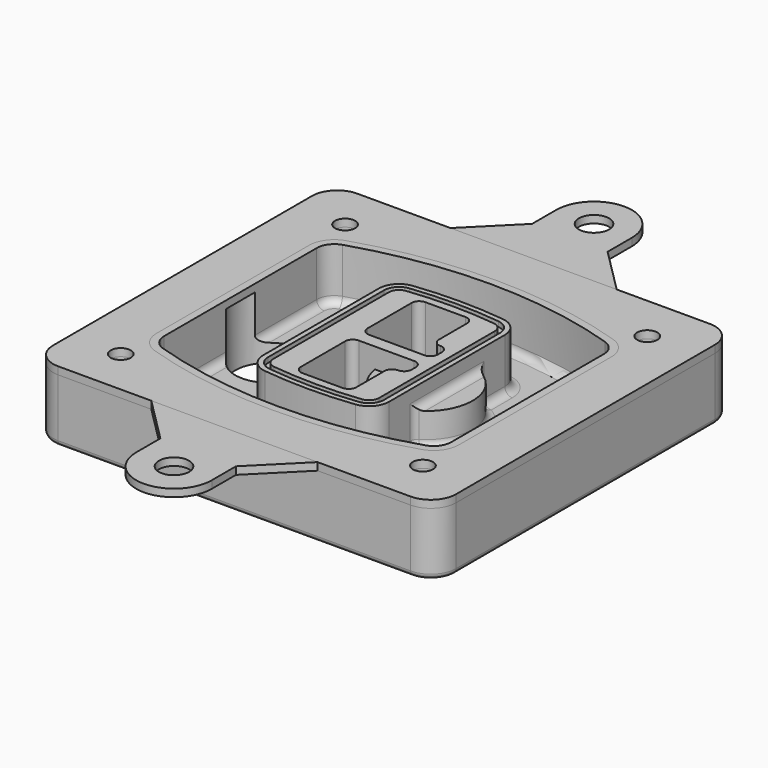
from build123d import *

# Parameters (mm, degrees)
F0_R      = 4
F1_DEPTH  = 25
F2_DEPTH  = 3
F3_DEPTH  = 18
F5_DEPTH  = 21
F6_DEPTH  = 2
F8_DEPTH  = 20
F9_DEPTH  = 16
F10_DEPTH = 25
F7_R      = 6
F7_R_2    = 4
F11_DEPTH = 6
F13_DEPTH = 9
F14_R     = 3
F15_R     = 2
F17_R     = 6
F18_DEPTH = 3
F16_R     = 4


with BuildPart() as f1:
    # F0 (on Top) → F1 (new body)
    with BuildSketch(Plane.XY):
        with BuildLine():
            ThreePointArc((-80, -64.25), (-77.0710678119, -71.3210678119), (-70, -74.25))
            Line((-70, -74.25), (70, -74.25))
            ThreePointArc((70, -74.25), (77.0710678119, -71.3210678119), (80, -64.25))
            Line((80, -64.25), (80, 64.25))
            ThreePointArc((80, 64.25), (77.0710678119, 71.3210678119), (70, 74.25))
            Line((70, 74.25), (-70, 74.25))
            ThreePointArc((-70, 74.25), (-77.0710678119, 71.3210678119), (-80, 64.25))
            Line((-80, 64.25), (-80, -64.25))
        make_face()
        with Locations((-60, -55.6875)):
            Circle(F0_R, mode=Mode.SUBTRACT)
        with Locations((60, -55.6875)):
            Circle(F0_R, mode=Mode.SUBTRACT)
        with Locations((-60, 55.6875)):
            Circle(F0_R, mode=Mode.SUBTRACT)
        with BuildLine():
            ThreePointArc((-64, 37.8679139701), (-61.3102148227, 46.1189163738), (-54.2744227621, 51.1994296398))
            ThreePointArc((-54.2744227621, 51.1994296398), (0, 59.6875), (54.2744227621, 51.1994296398))
            ThreePointArc((54.2744227621, 51.1994296398), (61.3102148227, 46.1189163738), (64, 37.8679139701))
            Line((64, 37.8679139701), (64, -37.8679139701))
            ThreePointArc((64, -37.8679139701), (61.3102148227, -46.1189163738), (54.2744227621, -51.1994296398))
            ThreePointArc((54.2744227621, -51.1994296398), (0, -59.6875), (-54.2744227621, -51.1994296398))
            ThreePointArc((-54.2744227621, -51.1994296398), (-61.3102148227, -46.1189163738), (-64, -37.8679139701))
            Line((-64, -37.8679139701), (-64, 37.8679139701))
        make_face(mode=Mode.SUBTRACT)
        with Locations((60, 55.6875)):
            Circle(F0_R, mode=Mode.SUBTRACT)
        with BuildLine():
            ThreePointArc((54.2744227621, 51.1994296398), (0, 59.6875), (-54.2744227621, 51.1994296398))
            ThreePointArc((-54.2744227621, 51.1994296398), (-61.3102148227, 46.1189163738), (-64, 37.8679139701))
            Line((-64, 37.8679139701), (-64, -37.8679139701))
            ThreePointArc((-64, -37.8679139701), (-61.3102148227, -46.1189163738), (-54.2744227621, -51.1994296398))
            ThreePointArc((-54.2744227621, -51.1994296398), (0, -59.6875), (54.2744227621, -51.1994296398))
            ThreePointArc((54.2744227621, -51.1994296398), (61.3102148227, -46.1189163738), (64, -37.8679139701))
            Line((64, -37.8679139701), (64, 37.8679139701))
            ThreePointArc((64, 37.8679139701), (61.3102148227, 46.1189163738), (54.2744227621, 51.1994296398))
        make_face()
        with BuildLine():
            Line((-60, -37.8679139701), (-60, 37.8679139701))
            ThreePointArc((-60, 37.8679139701), (-58.0787248733, 43.7614871156), (-53.0531591158, 47.3904251628))
            ThreePointArc((-53.0531591158, 47.3904251628), (0, 55.6875), (53.0531591158, 47.3904251628))
            ThreePointArc((53.0531591158, 47.3904251628), (58.0787248733, 43.7614871156), (60, 37.8679139701))
            Line((60, 37.8679139701), (60, -37.8679139701))
            ThreePointArc((60, -37.8679139701), (58.0787248733, -43.7614871156), (53.0531591158, -47.3904251628))
            ThreePointArc((53.0531591158, -47.3904251628), (0, -55.6875), (-53.0531591158, -47.3904251628))
            ThreePointArc((-53.0531591158, -47.3904251628), (-58.0787248733, -43.7614871156), (-60, -37.8679139701))
        make_face(mode=Mode.SUBTRACT)
        with BuildLine():
            ThreePointArc((-53.0531591158, 47.3904251628), (-58.0787248733, 43.7614871156), (-60, 37.8679139701))
            Line((-60, 37.8679139701), (-60, -37.8679139701))
            ThreePointArc((-60, -37.8679139701), (-58.0787248733, -43.7614871156), (-53.0531591158, -47.3904251628))
            ThreePointArc((-53.0531591158, -47.3904251628), (0, -55.6875), (53.0531591158, -47.3904251628))
            ThreePointArc((53.0531591158, -47.3904251628), (58.0787248733, -43.7614871156), (60, -37.8679139701))
            Line((60, -37.8679139701), (60, 37.8679139701))
            ThreePointArc((60, 37.8679139701), (58.0787248733, 43.7614871156), (53.0531591158, 47.3904251628))
            ThreePointArc((53.0531591158, 47.3904251628), (0, 55.6875), (-53.0531591158, 47.3904251628))
        make_face()
        with BuildLine():
            ThreePointArc((52.1372113811, 44.533671805), (55.6551074113, 41.993415172), (57, 37.8679139701))
            Line((57, 37.8679139701), (57, -37.8679139701))
            ThreePointArc((57, -37.8679139701), (55.6551074113, -41.993415172), (52.1372113811, -44.533671805))
            ThreePointArc((52.1372113811, -44.533671805), (0, -52.6875), (-52.1372113811, -44.533671805))
            ThreePointArc((-52.1372113811, -44.533671805), (-55.6551074113, -41.993415172), (-57, -37.8679139701))
            Line((-57, -37.8679139701), (-57, 37.8679139701))
            ThreePointArc((-57, 37.8679139701), (-55.6551074113, 41.993415172), (-52.1372113811, 44.533671805))
            ThreePointArc((-52.1372113811, 44.533671805), (0, 52.6875), (52.1372113811, 44.533671805))
        make_face(mode=Mode.SUBTRACT)
        with BuildLine():
            Line((57, -37.8679139701), (57, 37.8679139701))
            ThreePointArc((57, 37.8679139701), (55.6551074113, 41.993415172), (52.1372113811, 44.533671805))
            ThreePointArc((52.1372113811, 44.533671805), (0, 52.6875), (-52.1372113811, 44.533671805))
            ThreePointArc((-52.1372113811, 44.533671805), (-55.6551074113, 41.993415172), (-57, 37.8679139701))
            Line((-57, 37.8679139701), (-57, -37.8679139701))
            ThreePointArc((-57, -37.8679139701), (-55.6551074113, -41.993415172), (-52.1372113811, -44.533671805))
            ThreePointArc((-52.1372113811, -44.533671805), (0, -52.6875), (52.1372113811, -44.533671805))
            ThreePointArc((52.1372113811, -44.533671805), (55.6551074113, -41.993415172), (57, -37.8679139701))
        make_face()
    extrude(amount=-F1_DEPTH)

    # F0 (on Top) → F2 (join)
    with BuildSketch(Plane.XY):
        with BuildLine():
            ThreePointArc((-53.0531591158, 47.3904251628), (-58.0787248733, 43.7614871156), (-60, 37.8679139701))
            Line((-60, 37.8679139701), (-60, -37.8679139701))
            ThreePointArc((-60, -37.8679139701), (-58.0787248733, -43.7614871156), (-53.0531591158, -47.3904251628))
            ThreePointArc((-53.0531591158, -47.3904251628), (0, -55.6875), (53.0531591158, -47.3904251628))
            ThreePointArc((53.0531591158, -47.3904251628), (58.0787248733, -43.7614871156), (60, -37.8679139701))
            Line((60, -37.8679139701), (60, 37.8679139701))
            ThreePointArc((60, 37.8679139701), (58.0787248733, 43.7614871156), (53.0531591158, 47.3904251628))
            ThreePointArc((53.0531591158, 47.3904251628), (0, 55.6875), (-53.0531591158, 47.3904251628))
        make_face()
        with BuildLine():
            ThreePointArc((52.1372113811, 44.533671805), (55.6551074113, 41.993415172), (57, 37.8679139701))
            Line((57, 37.8679139701), (57, -37.8679139701))
            ThreePointArc((57, -37.8679139701), (55.6551074113, -41.993415172), (52.1372113811, -44.533671805))
            ThreePointArc((52.1372113811, -44.533671805), (0, -52.6875), (-52.1372113811, -44.533671805))
            ThreePointArc((-52.1372113811, -44.533671805), (-55.6551074113, -41.993415172), (-57, -37.8679139701))
            Line((-57, -37.8679139701), (-57, 37.8679139701))
            ThreePointArc((-57, 37.8679139701), (-55.6551074113, 41.993415172), (-52.1372113811, 44.533671805))
            ThreePointArc((-52.1372113811, 44.533671805), (0, 52.6875), (52.1372113811, 44.533671805))
        make_face(mode=Mode.SUBTRACT)
    extrude(amount=F2_DEPTH)

    # F0 (on Top) → F3 (cut)
    with BuildSketch(Plane.XY):
        with BuildLine():
            Line((57, -37.8679139701), (57, 37.8679139701))
            ThreePointArc((57, 37.8679139701), (55.6551074113, 41.993415172), (52.1372113811, 44.533671805))
            ThreePointArc((52.1372113811, 44.533671805), (0, 52.6875), (-52.1372113811, 44.533671805))
            ThreePointArc((-52.1372113811, 44.533671805), (-55.6551074113, 41.993415172), (-57, 37.8679139701))
            Line((-57, 37.8679139701), (-57, -37.8679139701))
            ThreePointArc((-57, -37.8679139701), (-55.6551074113, -41.993415172), (-52.1372113811, -44.533671805))
            ThreePointArc((-52.1372113811, -44.533671805), (0, -52.6875), (52.1372113811, -44.533671805))
            ThreePointArc((52.1372113811, -44.533671805), (55.6551074113, -41.993415172), (57, -37.8679139701))
        make_face()
    extrude(amount=-F3_DEPTH, mode=Mode.SUBTRACT)

    # F4 (on face) → F5 (join, through all)
    with BuildSketch(Plane.XY.offset(3)):
        with BuildLine():
            ThreePointArc((-25, -28.7063371133), (-22.9734015646, -34.0278475895), (-17.920381563, -36.6532168644))
            ThreePointArc((-17.920381563, -36.6532168644), (0, -37.6875), (17.920381563, -36.6532168644))
            ThreePointArc((17.920381563, -36.6532168644), (22.9734015646, -34.0278475895), (25, -28.7063371133))
            Line((25, -28.7063371133), (25, 28.7063371133))
            ThreePointArc((25, 28.7063371133), (22.9734015646, 34.0278475895), (17.920381563, 36.6532168644))
            ThreePointArc((17.920381563, 36.6532168644), (0, 37.6875), (-17.920381563, 36.6532168644))
            ThreePointArc((-17.920381563, 36.6532168644), (-22.9734015646, 34.0278475895), (-25, 28.7063371133))
            Line((-25, 28.7063371133), (-25, -28.7063371133))
        make_face()
        with BuildLine():
            ThreePointArc((17.6902861722, 34.6664969266), (21.4800511734, 32.6974699704), (23, 28.7063371133))
            Line((23, 28.7063371133), (23, -28.7063371133))
            ThreePointArc((23, -28.7063371133), (21.4800511734, -32.6974699704), (17.6902861722, -34.6664969266))
            ThreePointArc((17.6902861722, -34.6664969266), (0, -35.6875), (-17.6902861722, -34.6664969266))
            ThreePointArc((-17.6902861722, -34.6664969266), (-21.4800511734, -32.6974699704), (-23, -28.7063371133))
            Line((-23, -28.7063371133), (-23, 28.7063371133))
            ThreePointArc((-23, 28.7063371133), (-21.4800511734, 32.6974699704), (-17.6902861722, 34.6664969266))
            ThreePointArc((-17.6902861722, 34.6664969266), (0, 35.6875), (17.6902861722, 34.6664969266))
        make_face(mode=Mode.SUBTRACT)
        with BuildLine():
            Line((23, -28.7063371133), (23, 28.7063371133))
            ThreePointArc((23, 28.7063371133), (21.4800511734, 32.6974699704), (17.6902861722, 34.6664969266))
            ThreePointArc((17.6902861722, 34.6664969266), (0, 35.6875), (-17.6902861722, 34.6664969266))
            ThreePointArc((-17.6902861722, 34.6664969266), (-21.4800511734, 32.6974699704), (-23, 28.7063371133))
            Line((-23, 28.7063371133), (-23, -28.7063371133))
            ThreePointArc((-23, -28.7063371133), (-21.4800511734, -32.6974699704), (-17.6902861722, -34.6664969266))
            ThreePointArc((-17.6902861722, -34.6664969266), (0, -35.6875), (17.6902861722, -34.6664969266))
            ThreePointArc((17.6902861722, -34.6664969266), (21.4800511734, -32.6974699704), (23, -28.7063371133))
        make_face()
        with BuildLine():
            ThreePointArc((17.4601907815, 32.6797769888), (19.9867007823, 31.3670923514), (21, 28.7063371133))
            Line((21, 28.7063371133), (21, -28.7063371133))
            ThreePointArc((21, -28.7063371133), (19.9867007823, -31.3670923514), (17.4601907815, -32.6797769888))
            ThreePointArc((17.4601907815, -32.6797769888), (0, -33.6875), (-17.4601907815, -32.6797769888))
            ThreePointArc((-17.4601907815, -32.6797769888), (-19.9867007823, -31.3670923514), (-21, -28.7063371133))
            Line((-21, -28.7063371133), (-21, 28.7063371133))
            ThreePointArc((-21, 28.7063371133), (-19.9867007823, 31.3670923514), (-17.4601907815, 32.6797769888))
            ThreePointArc((-17.4601907815, 32.6797769888), (0, 33.6875), (17.4601907815, 32.6797769888))
        make_face(mode=Mode.SUBTRACT)
        with BuildLine():
            Line((21, -28.7063371133), (21, 28.7063371133))
            ThreePointArc((21, 28.7063371133), (19.9867007823, 31.3670923514), (17.4601907815, 32.6797769888))
            ThreePointArc((17.4601907815, 32.6797769888), (0, 33.6875), (-17.4601907815, 32.6797769888))
            ThreePointArc((-17.4601907815, 32.6797769888), (-19.9867007823, 31.3670923514), (-21, 28.7063371133))
            Line((-21, 28.7063371133), (-21, -28.7063371133))
            ThreePointArc((-21, -28.7063371133), (-19.9867007823, -31.3670923514), (-17.4601907815, -32.6797769888))
            ThreePointArc((-17.4601907815, -32.6797769888), (0, -33.6875), (17.4601907815, -32.6797769888))
            ThreePointArc((17.4601907815, -32.6797769888), (19.9867007823, -31.3670923514), (21, -28.7063371133))
        make_face()
        with BuildLine():
            Line((-8, -2.5), (14, -2.5))
            ThreePointArc((14, -2.5), (16.1213203436, -3.3786796564), (17, -5.5))
            Line((17, -5.5), (17, -7.5))
            ThreePointArc((17, -7.5), (16.1213203436, -9.6213203436), (14, -10.5))
            ThreePointArc((14, -10.5), (11.8786796564, -11.3786796564), (11, -13.5))
            Line((11, -13.5), (11, -27.5))
            ThreePointArc((11, -27.5), (10.1213203436, -29.6213203436), (8, -30.5))
            Line((8, -30.5), (-8, -30.5))
            ThreePointArc((-8, -30.5), (-10.1213203436, -29.6213203436), (-11, -27.5))
            Line((-11, -27.5), (-11, -5.5))
            ThreePointArc((-11, -5.5), (-10.1213203436, -3.3786796564), (-8, -2.5))
        make_face(mode=Mode.SUBTRACT)
        with BuildLine():
            ThreePointArc((-8, 2.5), (-10.1213203436, 3.3786796564), (-11, 5.5))
            Line((-11, 5.5), (-11, 27.5))
            ThreePointArc((-11, 27.5), (-10.1213203436, 29.6213203436), (-8, 30.5))
            Line((-8, 30.5), (8, 30.5))
            ThreePointArc((8, 30.5), (10.1213203436, 29.6213203436), (11, 27.5))
            Line((11, 27.5), (11, 13.5))
            ThreePointArc((11, 13.5), (11.8786796564, 11.3786796564), (14, 10.5))
            ThreePointArc((14, 10.5), (16.1213203436, 9.6213203436), (17, 7.5))
            Line((17, 7.5), (17, 5.5))
            ThreePointArc((17, 5.5), (16.1213203436, 3.3786796564), (14, 2.5))
            Line((14, 2.5), (-8, 2.5))
        make_face(mode=Mode.SUBTRACT)
    extrude(amount=-F5_DEPTH)

    # F4 (on face) → F6 (cut)
    with BuildSketch(Plane.XY.offset(3)):
        with BuildLine():
            Line((23, -28.7063371133), (23, 28.7063371133))
            ThreePointArc((23, 28.7063371133), (21.4800511734, 32.6974699704), (17.6902861722, 34.6664969266))
            ThreePointArc((17.6902861722, 34.6664969266), (0, 35.6875), (-17.6902861722, 34.6664969266))
            ThreePointArc((-17.6902861722, 34.6664969266), (-21.4800511734, 32.6974699704), (-23, 28.7063371133))
            Line((-23, 28.7063371133), (-23, -28.7063371133))
            ThreePointArc((-23, -28.7063371133), (-21.4800511734, -32.6974699704), (-17.6902861722, -34.6664969266))
            ThreePointArc((-17.6902861722, -34.6664969266), (0, -35.6875), (17.6902861722, -34.6664969266))
            ThreePointArc((17.6902861722, -34.6664969266), (21.4800511734, -32.6974699704), (23, -28.7063371133))
        make_face()
        with BuildLine():
            ThreePointArc((17.4601907815, 32.6797769888), (19.9867007823, 31.3670923514), (21, 28.7063371133))
            Line((21, 28.7063371133), (21, -28.7063371133))
            ThreePointArc((21, -28.7063371133), (19.9867007823, -31.3670923514), (17.4601907815, -32.6797769888))
            ThreePointArc((17.4601907815, -32.6797769888), (0, -33.6875), (-17.4601907815, -32.6797769888))
            ThreePointArc((-17.4601907815, -32.6797769888), (-19.9867007823, -31.3670923514), (-21, -28.7063371133))
            Line((-21, -28.7063371133), (-21, 28.7063371133))
            ThreePointArc((-21, 28.7063371133), (-19.9867007823, 31.3670923514), (-17.4601907815, 32.6797769888))
            ThreePointArc((-17.4601907815, 32.6797769888), (0, 33.6875), (17.4601907815, 32.6797769888))
        make_face(mode=Mode.SUBTRACT)
    extrude(amount=-F6_DEPTH, mode=Mode.SUBTRACT)

    # F7 (on face) → F8 (join)
    with BuildSketch(Plane(origin=(0, 0, -25), x_dir=(1, 0, 0), z_dir=(0, 0, -1))):
        with BuildLine():
            ThreePointArc((3.28842436, 0), (16.7567035675, 13.4682792075), (30.224982775, 0))
            Line((30.224982775, 0), (35.224982775, 0))
            ThreePointArc((35.224982775, 0), (16.7567035675, 18.4682792075), (-1.71157564, 0))
            Line((-1.71157564, 0), (3.28842436, 0))
        make_face()
        with BuildLine():
            Line((3.28842436, 0), (30.224982775, 0))
            ThreePointArc((30.224982775, 0), (16.7567035675, 13.4682792075), (3.28842436, 0))
        make_face()
        with BuildLine():
            ThreePointArc((3.28842436, 0), (16.7567035675, -13.4682792075), (30.224982775, 0))
            Line((30.224982775, 0), (3.28842436, 0))
        make_face()
        with BuildLine():
            Line((35.224982775, 0), (30.224982775, 0))
            ThreePointArc((30.224982775, 0), (16.7567035675, -13.4682792075), (3.28842436, 0))
            Line((3.28842436, 0), (-1.71157564, 0))
            ThreePointArc((-1.71157564, 0), (16.7567035675, -18.4682792075), (35.224982775, 0))
        make_face()
    extrude(amount=-F8_DEPTH)

    # F7 (on face) → F9 (cut)
    with BuildSketch(Plane(origin=(0, 0, -25), x_dir=(1, 0, 0), z_dir=(0, 0, -1))):
        with BuildLine():
            Line((3.28842436, 0), (30.224982775, 0))
            ThreePointArc((30.224982775, 0), (16.7567035675, 13.4682792075), (3.28842436, 0))
        make_face()
        with BuildLine():
            ThreePointArc((3.28842436, 0), (16.7567035675, -13.4682792075), (30.224982775, 0))
            Line((30.224982775, 0), (3.28842436, 0))
        make_face()
    extrude(amount=-F9_DEPTH, mode=Mode.SUBTRACT)

    # F7 (on face) → F10 (cut)
    with BuildSketch(Plane(origin=(0, 0, -25), x_dir=(1, 0, 0), z_dir=(0, 0, -1))):
        with BuildLine():
            Line((-59.0318229325, 0), (-32.0952645175, 0))
            ThreePointArc((-32.0952645175, 0), (-45.563543725, 13.4682792075), (-59.0318229325, 0))
        make_face()
        with BuildLine():
            ThreePointArc((-59.0318229325, 0), (-45.563543725, -13.4682792075), (-32.0952645175, 0))
            Line((-32.0952645175, 0), (-59.0318229325, 0))
        make_face()
    extrude(amount=-F10_DEPTH, mode=Mode.SUBTRACT)

    # F7 (on face) → F11 (cut)
    with BuildSketch(Plane(origin=(0, 0, -25), x_dir=(1, 0, 0), z_dir=(0, 0, -1))):
        with Locations((60, -55.6875)):
            Circle(F7_R)
        with Locations((60, -55.6875)):
            Circle(F7_R_2, mode=Mode.SUBTRACT)
        with Locations((60, -55.6875)):
            Circle(F7_R)
        with Locations((60, -55.6875)):
            Circle(F7_R_2, mode=Mode.SUBTRACT)
        with Locations((-60, -55.6875)):
            Circle(F7_R)
        with Locations((-60, -55.6875)):
            Circle(F7_R_2, mode=Mode.SUBTRACT)
        with Locations((-60, -55.6875)):
            Circle(F7_R)
        with Locations((-60, -55.6875)):
            Circle(F7_R_2, mode=Mode.SUBTRACT)
        with Locations((-60, 55.6875)):
            Circle(F7_R)
        with Locations((-60, 55.6875)):
            Circle(F7_R_2, mode=Mode.SUBTRACT)
        with Locations((-60, 55.6875)):
            Circle(F7_R)
        with Locations((-60, 55.6875)):
            Circle(F7_R_2, mode=Mode.SUBTRACT)
        with Locations((60, 55.6875)):
            Circle(F7_R)
        with Locations((60, 55.6875)):
            Circle(F7_R_2, mode=Mode.SUBTRACT)
        with Locations((60, 55.6875)):
            Circle(F7_R)
        with Locations((60, 55.6875)):
            Circle(F7_R_2, mode=Mode.SUBTRACT)
    extrude(amount=-F11_DEPTH, mode=Mode.SUBTRACT)

    # F12 (on face) → F13 (cut, through all)
    with BuildSketch(Plane(origin=(0, 0, -9), x_dir=(1, 0, 0), z_dir=(0, 0, -1))):
        with BuildLine():
            Line((11, 13.5), (11, 17.5481537753))
            ThreePointArc((11, 17.5481537753), (2.5696536419, 11.8239143813), (-1.5415842455, 2.5))
            Line((-1.5415842455, 2.5), (3.5224848595, 2.5))
            ThreePointArc((3.5224848595, 2.5), (6.1857188154, 8.3455872281), (11.2536447004, 12.2927168648))
            ThreePointArc((11.2536447004, 12.2927168648), (11.0640958889, 12.8831798879), (11, 13.5))
        make_face()
        with BuildLine():
            ThreePointArc((11.2536447004, -12.2927168648), (6.1857188154, -8.3455872281), (3.5224848595, -2.5))
            Line((3.5224848595, -2.5), (-1.5415842455, -2.5))
            ThreePointArc((-1.5415842455, -2.5), (2.5696536419, -11.8239143813), (11, -17.5481537753))
            Line((11, -17.5481537753), (11, -13.5))
            ThreePointArc((11, -13.5), (11.0640958889, -12.8831798879), (11.2536447004, -12.2927168648))
        make_face()
        with BuildLine():
            ThreePointArc((11.2536447004, 12.2927168648), (6.1857188154, 8.3455872281), (3.5224848595, 2.5))
            Line((3.5224848595, 2.5), (14, 2.5))
            ThreePointArc((14, 2.5), (16.1213203436, 3.3786796564), (17, 5.5))
            Line((17, 5.5), (17, 7.5))
            ThreePointArc((17, 7.5), (16.1213203436, 9.6213203436), (14, 10.5))
            ThreePointArc((14, 10.5), (12.3601599782, 10.9878446101), (11.2536447004, 12.2927168648))
        make_face()
        with BuildLine():
            Line((14, -2.5), (3.5224848595, -2.5))
            ThreePointArc((3.5224848595, -2.5), (6.1857188154, -8.3455872281), (11.2536447004, -12.2927168648))
            ThreePointArc((11.2536447004, -12.2927168648), (12.3601599782, -10.9878446101), (14, -10.5))
            ThreePointArc((14, -10.5), (16.1213203436, -9.6213203436), (17, -7.5))
            Line((17, -7.5), (17, -5.5))
            ThreePointArc((17, -5.5), (16.1213203436, -3.3786796564), (14, -2.5))
        make_face()
    extrude(amount=F13_DEPTH, mode=Mode.SUBTRACT)

    # F14
    f14_edges = [f1.edges().sort_by_distance(p)[0] for p in [
        (-57, -22.490712, -18),
        (-57, 22.490712, -18),
        (25, 0, -5),
        (25, 16.526506, -11.5),
        (25, -16.526506, -11.5),
        (25, -22.616422, -18),
        (35.224983, 0, -18),
    ]]
    fillet(f14_edges, radius=F14_R)

    # F15
    f15_edges = [f1.edges().sort_by_distance(p)[0] for p in [
        (0, -74.25, -25),
    ]]
    fillet(f15_edges, radius=F15_R)


with BuildPart() as f18:
    # F17 (on face) → F18 (new body, through all)
    with BuildSketch(Plane.XY):
        with BuildLine():
            Line((33, -74.25), (-33, -74.25))
            Line((-33, -74.25), (-15, -92.25))
            Line((-15, -92.25), (-15, -104.25))
            ThreePointArc((-15, -104.25), (0, -119.25), (15, -104.25))
            Line((15, -104.25), (15, -92.25))
            Line((15, -92.25), (33, -74.25))
        make_face()
        with Locations((0, -104.25)):
            Circle(F17_R, mode=Mode.SUBTRACT)
    extrude(amount=F18_DEPTH)


with BuildPart() as f18b:
    # F17 (on face) → F18, piece 2 (new body, through all)
    with BuildSketch(Plane.XY):
        with BuildLine():
            Line((-15, 92.25), (-33, 74.25))
            Line((-33, 74.25), (33, 74.25))
            Line((33, 74.25), (15, 92.25))
            Line((15, 92.25), (15, 104.25))
            ThreePointArc((15, 104.25), (0, 119.25), (-15, 104.25))
            Line((-15, 104.25), (-15, 92.25))
        make_face()
        with Locations((0, 104.25)):
            Circle(F17_R, mode=Mode.SUBTRACT)
    extrude(amount=F18_DEPTH)


with BuildPart() as f18c:
    # F16 (on face) → F18, piece 3 (new body, through all)
    with BuildSketch(Plane.XY):
        with BuildLine():
            Line((-80, 64.25), (-80, -64.25))
            ThreePointArc((-80, -64.25), (-77.0710678119, -71.3210678119), (-70, -74.25))
            Line((-70, -74.25), (70, -74.25))
            ThreePointArc((70, -74.25), (77.0710678119, -71.3210678119), (80, -64.25))
            Line((80, -64.25), (80, 64.25))
            ThreePointArc((80, 64.25), (77.0710678119, 71.3210678119), (70, 74.25))
            Line((70, 74.25), (-70, 74.25))
            ThreePointArc((-70, 74.25), (-77.0710678119, 71.3210678119), (-80, 64.25))
        make_face()
        with Locations((-60, -55.6875)):
            Circle(F16_R, mode=Mode.SUBTRACT)
        with Locations((60, -55.6875)):
            Circle(F16_R, mode=Mode.SUBTRACT)
        with Locations((-60, 55.6875)):
            Circle(F16_R, mode=Mode.SUBTRACT)
        with BuildLine():
            Line((-60, -37.8679139701), (-60, 37.8679139701))
            ThreePointArc((-60, 37.8679139701), (-58.0787248733, 43.7614871156), (-53.0531591158, 47.3904251628))
            ThreePointArc((-53.0531591158, 47.3904251628), (0, 55.6875), (53.0531591158, 47.3904251628))
            ThreePointArc((53.0531591158, 47.3904251628), (58.0787248733, 43.7614871156), (60, 37.8679139701))
            Line((60, 37.8679139701), (60, -37.8679139701))
            ThreePointArc((60, -37.8679139701), (58.0787248733, -43.7614871156), (53.0531591158, -47.3904251628))
            ThreePointArc((53.0531591158, -47.3904251628), (0, -55.6875), (-53.0531591158, -47.3904251628))
            ThreePointArc((-53.0531591158, -47.3904251628), (-58.0787248733, -43.7614871156), (-60, -37.8679139701))
        make_face(mode=Mode.SUBTRACT)
        with Locations((60, 55.6875)):
            Circle(F16_R, mode=Mode.SUBTRACT)
    extrude(amount=F18_DEPTH)


solid = Compound([f1.part, f18.part, f18b.part, f18c.part])
